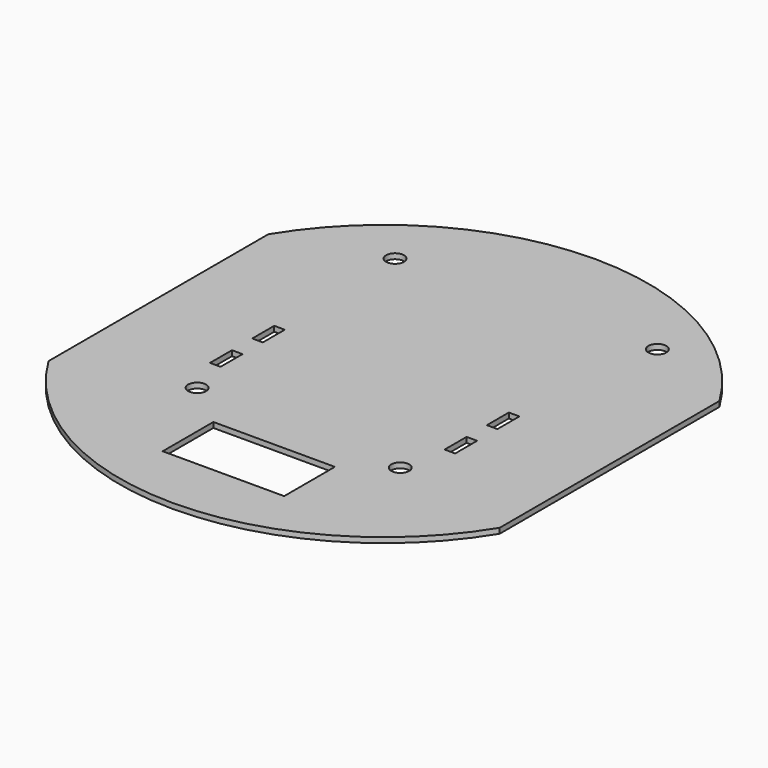
from build123d import *

# Parameters (mm, degrees)
SKETCH_R     = 50
SKETCH_R_2   = 1.7
SKETCH_W     = 23
SKETCH_H     = 12
SKETCH_W_2   = 2
SKETCH_H_2   = 5.2
PAD_DEPTH    = 1
POCKET_DEPTH = 1.001


with BuildPart() as part:
    # Sketch → Pad (new body)
    with BuildSketch(Plane.XY):
        Circle(SKETCH_R)
        with Locations((-20.208313, -18.964277)):
            Circle(SKETCH_R_2, mode=Mode.SUBTRACT)
        with Locations((19.208313, -20.163197)):
            Circle(SKETCH_R_2, mode=Mode.SUBTRACT)
        with Locations((-23.214944, 31.641004)):
            Circle(SKETCH_R_2, mode=Mode.SUBTRACT)
        with Locations((25.194012, 33.188677)):
            Circle(SKETCH_R_2, mode=Mode.SUBTRACT)
        with Locations((0, -32)):
            Rectangle(SKETCH_W, SKETCH_H, mode=Mode.SUBTRACT)
        with Locations((21.708313, 1.054153)):
            Rectangle(SKETCH_W_2, SKETCH_H_2, mode=Mode.SUBTRACT)
        with Locations((21.708313, -8.945847)):
            Rectangle(SKETCH_W_2, SKETCH_H_2, mode=Mode.SUBTRACT)
        with Locations((-22.708313, -8.941766)):
            Rectangle(SKETCH_W_2, SKETCH_H_2, mode=Mode.SUBTRACT)
        with Locations((-22.708313, 1.058234)):
            Rectangle(SKETCH_W_2, SKETCH_H_2, mode=Mode.SUBTRACT)
    extrude(amount=PAD_DEPTH)

    # Sketch001 (on Face27 of Pad) → Pocket (cut, through all)
    with BuildSketch(Plane.XY.offset(1)):
        with BuildLine():
            Line((-42.708313, 26), (-42.708313, -26))
            ThreePointArc((-42.708313, 26), (-68.708313, 0), (-42.708313, -26))
        make_face()
        with BuildLine():
            Line((42.708313, 26), (42.708313, -26))
            ThreePointArc((42.708313, -26), (68.708313, 0), (42.708313, 26))
        make_face()
    extrude(amount=-POCKET_DEPTH, mode=Mode.SUBTRACT)


solid = part.part
